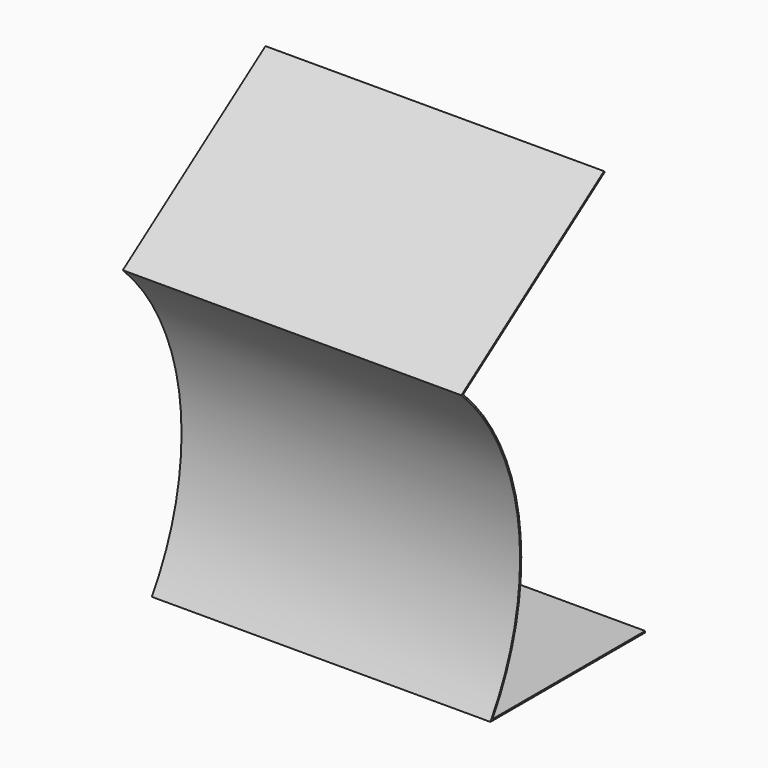
from build123d import *

# Parameters (mm, degrees)
F1_DEPTH = 35.56
F2_SCALE = 10


with BuildPart() as f1:
    # F0 (on Right) → F1 (new body, symmetric)
    with BuildSketch(Plane.YZ):
        with BuildLine():
            Line((-15.24, 0), (25.4, 0))
            Line((25.4, 0), (25.4, 0.3048))
            Line((25.4, 0.3048), (-14.6917010188, 0.3048))
            ThreePointArc((-14.6917010188, 0.3048), (-7.5112329288, 33.2260010127), (-22.3841798034, 63.4610807938))
            Line((-22.3841798034, 63.4610807938), (14.7664575627, 89.4742371269))
            Line((14.7664575627, 89.4742371269), (14.5916314649, 89.72391467))
            Line((14.5916314649, 89.72391467), (-22.86, 63.5))
            ThreePointArc((-22.86, 63.5), (-7.8029756135, 33.0996429264), (-15.24, 0))
        make_face()
    extrude(amount=F1_DEPTH, both=True)


with BuildPart() as f1_1:
    # F2: moved
    add(f1.part.scale(F2_SCALE))


solid = f1_1.part
